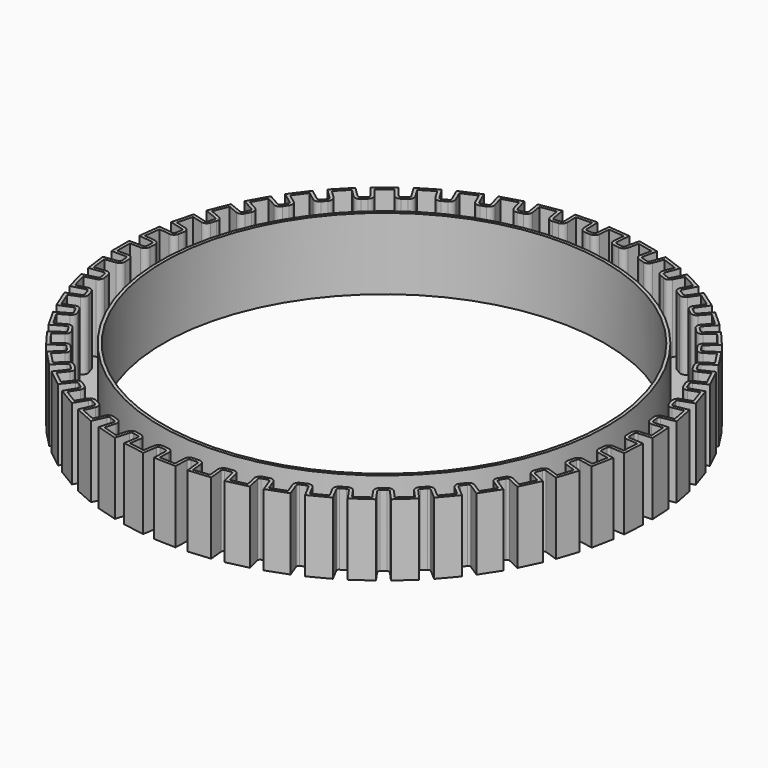
from build123d import *

# Parameters (mm, degrees)
F0_R     = 42.5
F1_DEPTH = 13
F2_T     = 0.6


with BuildPart() as f1:
    # F0 (on Top) → F1 (new body)
    with BuildSketch(Plane.XY):
        with BuildLine():
            Line((-47.4341649025, 1.5), (-49.5, 1.5))
            Line((-49.5, 1.5), (-49.5, -1.5))
            Line((-49.5, -1.5), (-47.4341649025, -1.5))
            ThreePointArc((-47.4341649025, -1.5), (-46.7459177009, -1.7745237499), (-46.4355509046, -2.4473684211))
            ThreePointArc((-46.4355509046, -2.4473684211), (-46.4044607629, -2.9792652291), (-46.3672782008, -3.5107708908))
            ThreePointArc((-46.3672782008, -3.5107708908), (-46.1182356428, -5.9462880183), (-45.7413531463, -8.3653220111))
            ThreePointArc((-45.7413531463, -8.3653220111), (-45.6425008001, -8.8888762346), (-45.5376560709, -9.4112634417))
            ThreePointArc((-45.5376560709, -9.4112634417), (-44.9792111313, -11.7949381518), (-44.2960836339, -14.145917245))
            ThreePointArc((-44.2960836339, -14.145917245), (-44.131092236, -14.6525321381), (-43.9603068873, -15.157223307))
            ThreePointArc((-43.9603068873, -15.157223307), (-43.1016292166, -17.4499157269), (-42.1234736528, -19.6942369088))
            ThreePointArc((-42.1234736528, -19.6942369088), (-41.8950523575, -20.175593869), (-41.6611306799, -20.6543019847))
            ThreePointArc((-41.6611306799, -20.6543019847), (-40.5163197417, -22.8183661682), (-39.259197399, -24.919177747))
            ThreePointArc((-39.259197399, -24.919177747), (-38.9710968775, -25.3673729063), (-38.6778798585, -25.8122375948))
            ThreePointArc((-38.6778798585, -25.8122375948), (-37.2657334169, -27.8121396678), (-35.7502862092, -29.7349463755))
            ThreePointArc((-35.7502862092, -29.7349463755), (-35.4072370642, -30.1426203818), (-35.0595393192, -30.5463369773))
            ThreePointArc((-35.0595393192, -30.5463369773), (-33.4032447795, -32.3492386031), (-31.6543563083, -34.0624680067))
            ThreePointArc((-31.6543563083, -34.0624680067), (-31.2619913972, -34.422926864), (-30.8655221135, -34.778866351))
            ThreePointArc((-30.8655221135, -34.778866351), (-28.9922757864, -36.3551639348), (-27.0386627519, -37.8306848549))
            ThreePointArc((-27.0386627519, -37.8306848549), (-26.6034246957, -38.1380098388), (-26.164693888, -38.4403277008))
            ThreePointArc((-26.164693888, -38.4403277008), (-24.1052544264, -39.7641384797), (-21.9789951007, -40.9777229036))
            ThreePointArc((-21.9789951007, -40.9777229036), (-21.5080304962, -41.2268677463), (-21.0342421123, -41.4705999325))
            ThreePointArc((-21.0342421123, -41.4705999325), (-18.8224254552, -42.5201869702), (-16.5584329575, -43.4519078752))
            ThreePointArc((-16.5584329575, -43.4519078752), (-16.0594750306, -43.6387816253), (-15.5584086626, -43.8199260598))
            ThreePointArc((-15.5584086626, -43.8199260598), (-13.2305327783, -44.5780551662), (-10.865981803, -45.2126137207))
            ThreePointArc((-10.865981803, -45.2126137207), (-10.347223429, -45.3341479165), (-9.8271065728, -45.4497302127))
            ThreePointArc((-9.8271065728, -45.4497302127), (-7.4213951191, -45.9039529288), (-4.9951115276, -46.2309296989))
            ThreePointArc((-4.9951115276, -46.2309296989), (-4.4650707047, -46.2851287521), (-3.9344436647, -46.333251052))
            ThreePointArc((-3.9344436647, -46.333251052), (-1.4903983571, -46.4761090533), (0.9577783409, -46.4901350896))
            ThreePointArc((0.9577783409, -46.4901350896), (1.4903983571, -46.4761090533), (2.0228226995, -46.45598119))
            ThreePointArc((2.0228226995, -46.45598119), (4.4650707047, -46.2851287521), (6.8949415156, -45.9859737474))
            ThreePointArc((6.8949415156, -45.9859737474), (7.4213951191, -45.9039529288), (7.946874371, -45.8159054012))
            ThreePointArc((7.946874371, -45.8159054012), (10.347223429, -45.3341479165), (12.7188899411, -44.7267239876))
            ThreePointArc((12.7188899411, -44.7267239876), (13.2305327783, -44.5780551662), (13.740438585, -44.4235337124))
            ThreePointArc((13.740438585, -44.4235337124), (16.0594750306, -43.6387816253), (18.3339945455, -42.7330626565))
            ThreePointArc((18.3339945455, -42.7330626565), (18.8224254552, -42.5201869702), (19.3083851773, -42.3017288281))
            ThreePointArc((19.3083851773, -42.3017288281), (21.5080304962, -41.2268677463), (23.6480554663, -40.037725618))
            ThreePointArc((23.6480554663, -40.037725618), (24.1052544264, -39.7641384797), (24.5592886187, -39.485330726))
            ThreePointArc((24.5592886187, -39.485330726), (26.6034246957, -38.1380098388), (28.5738159702, -36.6849702317))
            ThreePointArc((28.5738159702, -36.6849702317), (28.9922757864, -36.3551639348), (29.4069292201, -36.020584585))
            ThreePointArc((29.4069292201, -36.020584585), (31.2619913972, -34.422926864), (33.0303952058, -32.7298486485))
            ThreePointArc((33.0303952058, -32.7298486485), (33.4032447795, -32.3492386031), (33.7717088566, -31.964381441))
            ThreePointArc((33.7717088566, -31.964381441), (35.4072370642, -30.1426203818), (36.9446162652, -28.2373038553))
            ThreePointArc((36.9446162652, -28.2373038553), (37.2657334169, -27.8121396678), (37.5819579674, -27.3833240374))
            ThreePointArc((37.5819579674, -27.3833240374), (38.9710968775, -25.3673729063), (40.252207747, -23.2811033134))
            ThreePointArc((40.252207747, -23.2811033134), (40.5163197417, -22.8183661682), (40.7751123674, -22.3526332101))
            ThreePointArc((40.7751123674, -22.3526332101), (41.8950523575, -20.175593869), (42.8988590904, -17.9426276988))
            ThreePointArc((42.8988590904, -17.9426276988), (43.1016292166, -17.4499157269), (43.2987405496, -16.9549127635))
            ThreePointArc((43.2987405496, -16.9549127635), (44.131092236, -14.6525321381), (44.8411123536, -12.3095346334))
            ThreePointArc((44.8411123536, -12.3095346334), (44.9792111313, -11.7949381518), (45.111404609, -11.2787931181))
            ThreePointArc((45.111404609, -11.2787931181), (45.6425008001, -8.8888762346), (46.0470757916, -6.4743193497))
            ThreePointArc((46.0470757916, -6.4743193497), (46.1182356428, -5.9462880183), (46.1833406519, -5.4174760015))
            ThreePointArc((46.1833406519, -5.4174760015), (46.4044607629, -2.9792652291), (46.4969475182, -0.5327959212))
            ThreePointArc((46.4969475182, -0.5327959212), (46.5, 0), (46.4969475182, 0.5327959212))
            ThreePointArc((46.4969475182, 0.5327959212), (46.4044607629, 2.9792652291), (46.1833406519, 5.4174760015))
            ThreePointArc((46.1833406519, 5.4174760015), (46.1182356428, 5.9462880183), (46.0470757916, 6.4743193497))
            ThreePointArc((46.0470757916, 6.4743193497), (45.6425008001, 8.8888762346), (45.111404609, 11.2787931181))
            ThreePointArc((45.111404609, 11.2787931181), (44.9792111313, 11.7949381518), (44.8411123536, 12.3095346334))
            ThreePointArc((44.8411123536, 12.3095346334), (44.131092236, 14.6525321381), (43.2987405496, 16.9549127635))
            ThreePointArc((43.2987405496, 16.9549127635), (43.1016292166, 17.4499157269), (42.8988590904, 17.9426276988))
            ThreePointArc((42.8988590904, 17.9426276988), (41.8950523575, 20.175593869), (40.7751123674, 22.3526332101))
            ThreePointArc((40.7751123674, 22.3526332101), (40.5163197417, 22.8183661682), (40.252207747, 23.2811033134))
            ThreePointArc((40.252207747, 23.2811033134), (38.9710968775, 25.3673729063), (37.5819579674, 27.3833240374))
            ThreePointArc((37.5819579674, 27.3833240374), (37.2657334169, 27.8121396678), (36.9446162652, 28.2373038553))
            ThreePointArc((36.9446162652, 28.2373038553), (35.4072370642, 30.1426203818), (33.7717088566, 31.964381441))
            ThreePointArc((33.7717088566, 31.964381441), (33.4032447795, 32.3492386031), (33.0303952058, 32.7298486485))
            ThreePointArc((33.0303952058, 32.7298486485), (31.2619913972, 34.422926864), (29.4069292201, 36.020584585))
            ThreePointArc((29.4069292201, 36.020584585), (28.9922757864, 36.3551639348), (28.5738159702, 36.6849702317))
            ThreePointArc((28.5738159702, 36.6849702317), (26.6034246957, 38.1380098388), (24.5592886187, 39.485330726))
            ThreePointArc((24.5592886187, 39.485330726), (24.1052544264, 39.7641384797), (23.6480554663, 40.037725618))
            ThreePointArc((23.6480554663, 40.037725618), (21.5080304962, 41.2268677463), (19.3083851773, 42.3017288281))
            ThreePointArc((19.3083851773, 42.3017288281), (18.8224254552, 42.5201869702), (18.3339945455, 42.7330626565))
            ThreePointArc((18.3339945455, 42.7330626565), (16.0594750306, 43.6387816253), (13.740438585, 44.4235337124))
            ThreePointArc((13.740438585, 44.4235337124), (13.2305327783, 44.5780551662), (12.7188899411, 44.7267239876))
            ThreePointArc((12.7188899411, 44.7267239876), (10.347223429, 45.3341479165), (7.946874371, 45.8159054012))
            ThreePointArc((7.946874371, 45.8159054012), (7.4213951191, 45.9039529288), (6.8949415156, 45.9859737474))
            ThreePointArc((6.8949415156, 45.9859737474), (4.4650707047, 46.2851287521), (2.0228226995, 46.45598119))
            ThreePointArc((2.0228226995, 46.45598119), (1.4903983571, 46.4761090533), (0.9577783409, 46.4901350896))
            ThreePointArc((0.9577783409, 46.4901350896), (-1.4903983571, 46.4761090533), (-3.9344436647, 46.333251052))
            ThreePointArc((-3.9344436647, 46.333251052), (-4.4650707047, 46.2851287521), (-4.9951115276, 46.2309296989))
            ThreePointArc((-4.9951115276, 46.2309296989), (-7.4213951191, 45.9039529288), (-9.8271065728, 45.4497302127))
            ThreePointArc((-9.8271065728, 45.4497302127), (-10.347223429, 45.3341479165), (-10.865981803, 45.2126137207))
            ThreePointArc((-10.865981803, 45.2126137207), (-13.2305327783, 44.5780551662), (-15.5584086626, 43.8199260598))
            ThreePointArc((-15.5584086626, 43.8199260598), (-16.0594750306, 43.6387816253), (-16.5584329575, 43.4519078752))
            ThreePointArc((-16.5584329575, 43.4519078752), (-18.8224254552, 42.5201869702), (-21.0342421123, 41.4705999325))
            ThreePointArc((-21.0342421123, 41.4705999325), (-21.5080304962, 41.2268677463), (-21.9789951007, 40.9777229036))
            ThreePointArc((-21.9789951007, 40.9777229036), (-24.1052544264, 39.7641384797), (-26.164693888, 38.4403277008))
            ThreePointArc((-26.164693888, 38.4403277008), (-26.6034246957, 38.1380098388), (-27.0386627519, 37.8306848549))
            ThreePointArc((-27.0386627519, 37.8306848549), (-28.9922757864, 36.3551639348), (-30.8655221135, 34.778866351))
            ThreePointArc((-30.8655221135, 34.778866351), (-31.2619913972, 34.422926864), (-31.6543563083, 34.0624680067))
            ThreePointArc((-31.6543563083, 34.0624680067), (-33.4032447795, 32.3492386031), (-35.0595393192, 30.5463369773))
            ThreePointArc((-35.0595393192, 30.5463369773), (-35.4072370642, 30.1426203818), (-35.7502862092, 29.7349463755))
            ThreePointArc((-35.7502862092, 29.7349463755), (-37.2657334169, 27.8121396678), (-38.6778798585, 25.8122375948))
            ThreePointArc((-38.6778798585, 25.8122375948), (-38.9710968775, 25.3673729063), (-39.259197399, 24.919177747))
            ThreePointArc((-39.259197399, 24.919177747), (-40.5163197417, 22.8183661682), (-41.6611306799, 20.6543019847))
            ThreePointArc((-41.6611306799, 20.6543019847), (-41.8950523575, 20.175593869), (-42.1234736528, 19.6942369088))
            ThreePointArc((-42.1234736528, 19.6942369088), (-43.1016292166, 17.4499157269), (-43.9603068873, 15.157223307))
            ThreePointArc((-43.9603068873, 15.157223307), (-44.131092236, 14.6525321381), (-44.2960836339, 14.145917245))
            ThreePointArc((-44.2960836339, 14.145917245), (-44.9792111313, 11.7949381518), (-45.5376560709, 9.4112634417))
            ThreePointArc((-45.5376560709, 9.4112634417), (-45.6425008001, 8.8888762346), (-45.7413531463, 8.3653220111))
            ThreePointArc((-45.7413531463, 8.3653220111), (-46.1182356428, 5.9462880183), (-46.3672782008, 3.5107708908))
            ThreePointArc((-46.3672782008, 3.5107708908), (-46.4044607629, 2.9792652291), (-46.4355509046, 2.4473684211))
            ThreePointArc((-46.4355509046, 2.4473684211), (-46.7459177009, 1.7745237499), (-47.4341649025, 1.5))
        make_face()
        Circle(F0_R, mode=Mode.SUBTRACT)
        with BuildLine():
            ThreePointArc((-47.2365468069, 4.5780613539), (-46.5890554232, 4.2177803415), (-46.3672782008, 3.5107708908))
            ThreePointArc((-46.3672782008, 3.5107708908), (-46.1182356428, 5.9462880183), (-45.7413531463, 8.3653220111))
            ThreePointArc((-45.7413531463, 8.3653220111), (-46.1352133023, 7.7376902104), (-46.8529153218, 7.5534313953))
            Line((-46.8529153218, 7.5534313953), (-48.9017899417, 7.8176045241))
            Line((-48.9017899417, 7.8176045241), (-49.2854214268, 4.8422344826))
            Line((-49.2854214268, 4.8422344826), (-47.2365468069, 4.5780613539))
        make_face()
        with BuildLine():
            ThreePointArc((-45.7413531463, -8.3653220111), (-46.1182356428, -5.9462880183), (-46.3672782008, -3.5107708908))
            ThreePointArc((-46.3672782008, -3.5107708908), (-46.5890554232, -4.2177803415), (-47.2365468069, -4.5780613539))
            Line((-47.2365468069, -4.5780613539), (-49.2854214268, -4.8422344826))
            Line((-49.2854214268, -4.8422344826), (-48.9017899417, -7.8176045241))
            Line((-48.9017899417, -7.8176045241), (-46.8529153218, -7.5534313953))
            ThreePointArc((-46.8529153218, -7.5534313953), (-46.1352133023, -7.7376902104), (-45.7413531463, -8.3653220111))
        make_face()
        with BuildLine():
            ThreePointArc((-46.2633059186, 10.5809510669), (-45.6672021436, 10.1408285963), (-45.5376560709, 9.4112634417))
            ThreePointArc((-45.5376560709, 9.4112634417), (-44.9792111313, 11.7949381518), (-44.2960836339, 14.145917245))
            ThreePointArc((-44.2960836339, 14.145917245), (-44.7669699767, 13.5738040115), (-45.5023421669, 13.482835656))
            Line((-45.5023421669, 13.482835656), (-47.5006138446, 14.0068441981))
            Line((-47.5006138446, 14.0068441981), (-48.2615775963, 11.104959609))
            Line((-48.2615775963, 11.104959609), (-46.2633059186, 10.5809510669))
        make_face()
        with BuildLine():
            ThreePointArc((-44.2960836339, -14.145917245), (-44.9792111313, -11.7949381518), (-45.5376560709, -9.4112634417))
            ThreePointArc((-45.5376560709, -9.4112634417), (-45.6672021436, -10.1408285963), (-46.2633059186, -10.5809510669))
            Line((-46.2633059186, -10.5809510669), (-48.2615775963, -11.104959609))
            Line((-48.2615775963, -11.104959609), (-47.5006138446, -14.0068441981))
            Line((-47.5006138446, -14.0068441981), (-45.5023421669, -13.482835656))
            ThreePointArc((-45.5023421669, -13.482835656), (-44.7669699767, -13.5738040115), (-44.2960836339, -14.145917245))
        make_face()
        with BuildLine():
            ThreePointArc((-44.5304228262, 16.4101018559), (-43.9954946672, 15.8973647259), (-43.9603068873, 15.157223307))
            ThreePointArc((-43.9603068873, 15.157223307), (-43.1016292166, 17.4499157269), (-42.1234736528, 19.6942369088))
            ThreePointArc((-42.1234736528, 19.6942369088), (-42.6636542418, 19.187036326), (-43.4046218115, 19.1908521279))
            Line((-43.4046218115, 19.1908521279), (-45.3194789813, 19.9660918775))
            Line((-45.3194789813, 19.9660918775), (-46.4452799959, 17.1853416055))
            Line((-46.4452799959, 17.1853416055), (-44.5304228262, 16.4101018559))
        make_face()
        with BuildLine():
            ThreePointArc((-42.1234736528, -19.6942369088), (-43.1016292166, -17.4499157269), (-43.9603068873, -15.157223307))
            ThreePointArc((-43.9603068873, -15.157223307), (-43.9954946672, -15.8973647259), (-44.5304228262, -16.4101018559))
            Line((-44.5304228262, -16.4101018559), (-46.4452799959, -17.1853416055))
            Line((-46.4452799959, -17.1853416055), (-45.3194789813, -19.9660918775))
            Line((-45.3194789813, -19.9660918775), (-43.4046218115, -19.1908521279))
            ThreePointArc((-43.4046218115, -19.1908521279), (-42.6636542418, -19.187036326), (-42.1234736528, -19.6942369088))
        make_face()
        with BuildLine():
            ThreePointArc((-42.066351422, 21.9697992261), (-41.6013823847, 21.3928665662), (-41.6611306799, 20.6543019847))
            ThreePointArc((-41.6611306799, 20.6543019847), (-40.5163197417, 22.8183661682), (-39.259197399, 24.919177747))
            ThreePointArc((-39.259197399, 24.919177747), (-39.8598024837, 24.4852180346), (-40.594198766, 24.5837553385))
            Line((-40.594198766, 24.5837553385), (-42.3941995261, 25.5974968804))
            Line((-42.3941995261, 25.5974968804), (-43.8663521821, 22.983540768))
            Line((-43.8663521821, 22.983540768), (-42.066351422, 21.9697992261))
        make_face()
        with BuildLine():
            ThreePointArc((-39.259197399, -24.919177747), (-40.5163197417, -22.8183661682), (-41.6611306799, -20.6543019847))
            ThreePointArc((-41.6611306799, -20.6543019847), (-41.6013823847, -21.3928665662), (-42.066351422, -21.9697992261))
            Line((-42.066351422, -21.9697992261), (-43.8663521821, -22.983540768))
            Line((-43.8663521821, -22.983540768), (-42.3941995261, -25.5974968804))
            Line((-42.3941995261, -25.5974968804), (-40.594198766, -24.5837553385))
            ThreePointArc((-40.594198766, -24.5837553385), (-39.8598024837, -24.4852180346), (-39.259197399, -24.919177747))
        make_face()
        with BuildLine():
            ThreePointArc((-38.9115516906, 27.1687531005), (-38.5241765536, 26.5370981289), (-38.6778798585, 25.8122375948))
            ThreePointArc((-38.6778798585, 25.8122375948), (-37.2657334169, 27.8121396678), (-35.7502862092, 29.7349463755))
            ThreePointArc((-35.7502862092, 29.7349463755), (-36.4014538708, 29.3813531399), (-37.1172200991, 29.5729939661))
            Line((-37.1172200991, 29.5729939661), (-38.7728084867, 30.8085916921))
            Line((-38.7728084867, 30.8085916921), (-40.5671400782, 28.4043508265))
            Line((-40.5671400782, 28.4043508265), (-38.9115516906, 27.1687531005))
        make_face()
        with BuildLine():
            ThreePointArc((-35.7502862092, -29.7349463755), (-37.2657334169, -27.8121396678), (-38.6778798585, -25.8122375948))
            ThreePointArc((-38.6778798585, -25.8122375948), (-38.5241765536, -26.5370981289), (-38.9115516906, -27.1687531005))
            Line((-38.9115516906, -27.1687531005), (-40.5671400782, -28.4043508265))
            Line((-40.5671400782, -28.4043508265), (-38.7728084867, -30.8085916921))
            Line((-38.7728084867, -30.8085916921), (-37.1172200991, -29.5729939661))
            ThreePointArc((-37.1172200991, -29.5729939661), (-36.4014538708, -29.3813531399), (-35.7502862092, -29.7349463755))
        make_face()
        with BuildLine():
            ThreePointArc((-35.1178253561, 31.9215968), (-34.8144048086, 31.245591274), (-35.0595393192, 30.5463369773))
            ThreePointArc((-35.0595393192, 30.5463369773), (-33.4032447795, 32.3492386031), (-31.6543563083, 34.0624680067))
            ThreePointArc((-31.6543563083, 34.0624680067), (-32.3453943917, 33.7950472389), (-33.0307777043, 34.0766448503))
            Line((-33.0307777043, 34.0766448503), (-34.5147690039, 35.51381028))
            Line((-34.5147690039, 35.51381028), (-36.6018166557, 33.3587622297))
            Line((-36.6018166557, 33.3587622297), (-35.1178253561, 31.9215968))
        make_face()
        with BuildLine():
            ThreePointArc((-31.6543563083, -34.0624680067), (-33.4032447795, -32.3492386031), (-35.0595393192, -30.5463369773))
            ThreePointArc((-35.0595393192, -30.5463369773), (-34.8144048086, -31.245591274), (-35.1178253561, -31.9215968))
            Line((-35.1178253561, -31.9215968), (-36.6018166557, -33.3587622297))
            Line((-36.6018166557, -33.3587622297), (-34.5147690039, -35.51381028))
            Line((-34.5147690039, -35.51381028), (-33.0307777043, -34.0766448503))
            ThreePointArc((-33.0307777043, -34.0766448503), (-32.3453943917, -33.7950472389), (-31.6543563083, -34.0624680067))
        make_face()
        with BuildLine():
            ThreePointArc((-30.7474653001, 36.1502887626), (-30.5329814991, 35.4410326742), (-30.8655221135, 34.778866351))
            ThreePointArc((-30.8655221135, 34.778866351), (-28.9922757864, 36.3551639348), (-27.0386627519, 37.8306848549))
            ThreePointArc((-27.0386627519, 37.8306848549), (-27.758224431, 37.6538275966), (-28.4019708527, 38.0207581682))
            Line((-28.4019708527, 38.0207581682), (-29.6899979683, 39.635893085))
            Line((-29.6899979683, 39.635893085), (-32.0354924157, 37.7654236794))
            Line((-32.0354924157, 37.7654236794), (-30.7474653001, 36.1502887626))
        make_face()
        with BuildLine():
            ThreePointArc((-27.0386627519, -37.8306848549), (-28.9922757864, -36.3551639348), (-30.8655221135, -34.778866351))
            ThreePointArc((-30.8655221135, -34.778866351), (-30.5329814991, -35.4410326742), (-30.7474653001, -36.1502887626))
            Line((-30.7474653001, -36.1502887626), (-32.0354924157, -37.7654236794))
            Line((-32.0354924157, -37.7654236794), (-29.6899979683, -39.635893085))
            Line((-29.6899979683, -39.635893085), (-28.4019708527, -38.0207581682))
            ThreePointArc((-28.4019708527, -38.0207581682), (-27.758224431, -37.6538275966), (-27.0386627519, -37.8306848549))
        make_face()
        with BuildLine():
            ThreePointArc((-25.872232714, 39.7853939831), (-25.7502074775, 39.0545332977), (-26.164693888, 38.4403277008))
            ThreePointArc((-26.164693888, 38.4403277008), (-24.1052544264, 39.7641384797), (-21.9789951007, 40.9777229036))
            ThreePointArc((-21.9789951007, 40.9777229036), (-22.7152651925, 40.8943331462), (-23.306804425, 41.3405716881))
            Line((-23.306804425, 41.3405716881), (-24.3777179869, 43.1071556212))
            Line((-24.3777179869, 43.1071556212), (-26.9431462759, 41.5519779163))
            Line((-26.9431462759, 41.5519779163), (-25.872232714, 39.7853939831))
        make_face()
        with BuildLine():
            ThreePointArc((-21.9789951007, -40.9777229036), (-24.1052544264, -39.7641384797), (-26.164693888, -38.4403277008))
            ThreePointArc((-26.164693888, -38.4403277008), (-25.7502074775, -39.0545332977), (-25.872232714, -39.7853939831))
            Line((-25.872232714, -39.7853939831), (-26.9431462759, -41.5519779163))
            Line((-26.9431462759, -41.5519779163), (-24.3777179869, -43.1071556212))
            Line((-24.3777179869, -43.1071556212), (-23.306804425, -41.3405716881))
            ThreePointArc((-23.306804425, -41.3405716881), (-22.7152651925, -40.8943331462), (-21.9789951007, -40.9777229036))
        make_face()
        with BuildLine():
            ThreePointArc((-20.572178782, 42.7672241344), (-20.544615761, 42.0267595642), (-21.0342421123, 41.4705999325))
            ThreePointArc((-21.0342421123, 41.4705999325), (-18.8224254552, 42.5201869702), (-16.5584329575, 43.4519078752))
            ThreePointArc((-16.5584329575, 43.4519078752), (-17.2993219276, 43.4633548761), (-17.8289409129, 43.9815741638))
            Line((-17.8289409129, 43.9815741638), (-18.66515655, 45.870599854))
            Line((-18.66515655, 45.870599854), (-21.4083944191, 44.6562498246))
            Line((-21.4083944191, 44.6562498246), (-20.572178782, 42.7672241344))
        make_face()
        with BuildLine():
            ThreePointArc((-16.5584329575, -43.4519078752), (-18.8224254552, -42.5201869702), (-21.0342421123, -41.4705999325))
            ThreePointArc((-21.0342421123, -41.4705999325), (-20.544615761, -42.0267595642), (-20.572178782, -42.7672241344))
            Line((-20.572178782, -42.7672241344), (-21.4083944191, -44.6562498246))
            Line((-21.4083944191, -44.6562498246), (-18.66515655, -45.870599854))
            Line((-18.66515655, -45.870599854), (-17.8289409129, -43.9815741638))
            ThreePointArc((-17.8289409129, -43.9815741638), (-17.2993219276, -43.4633548761), (-16.5584329575, -43.4519078752))
        make_face()
        with BuildLine():
            ThreePointArc((-14.9343302431, 45.0468176477), (-15.0016820218, 44.3089076006), (-15.5584086626, 43.8199260598))
            ThreePointArc((-15.5584086626, 43.8199260598), (-13.2305327783, 44.5780551662), (-10.865981803, 45.2126137207))
            ThreePointArc((-10.865981803, 45.2126137207), (-11.5993242748, 45.3187095205), (-12.058326684, 45.9004004076))
            Line((-12.058326684, 45.9004004076), (-12.6461137587, 47.8808501053))
            Line((-12.6461137587, 47.8808501053), (-15.5221173178, 47.0272673454))
            Line((-15.5221173178, 47.0272673454), (-14.9343302431, 45.0468176477))
        make_face()
        with BuildLine():
            ThreePointArc((-10.865981803, -45.2126137207), (-13.2305327783, -44.5780551662), (-15.5584086626, -43.8199260598))
            ThreePointArc((-15.5584086626, -43.8199260598), (-15.0016820218, -44.3089076006), (-14.9343302431, -45.0468176477))
            Line((-14.9343302431, -45.0468176477), (-15.5221173178, -47.0272673454))
            Line((-15.5221173178, -47.0272673454), (-12.6461137587, -47.8808501053))
            Line((-12.6461137587, -47.8808501053), (-12.058326684, -45.9004004076))
            ThreePointArc((-12.058326684, -45.9004004076), (-11.5993242748, -45.3187095205), (-10.865981803, -45.2126137207))
        make_face()
        with BuildLine():
            ThreePointArc((-9.0512604146, 46.5867436607), (-9.2124210784, 45.8635045991), (-9.8271065728, 45.4497302127))
            ThreePointArc((-9.8271065728, 45.4497302127), (-7.4213951191, 45.9039529288), (-4.9951115276, 46.2309296989))
            ThreePointArc((-4.9951115276, 46.2309296989), (-5.7088660382, 46.4299322076), (-6.0897150643, 47.0655433458))
            Line((-6.0897150643, 47.0655433458), (-6.419422129, 49.1048981216))
            Line((-6.419422129, 49.1048981216), (-9.3809674793, 48.6260984365))
            Line((-9.3809674793, 48.6260984365), (-9.0512604146, 46.5867436607))
        make_face()
        with BuildLine():
            ThreePointArc((-4.9951115276, -46.2309296989), (-7.4213951191, -45.9039529288), (-9.8271065728, -45.4497302127))
            ThreePointArc((-9.8271065728, -45.4497302127), (-9.2124210784, -45.8635045991), (-9.0512604146, -46.5867436607))
            Line((-9.0512604146, -46.5867436607), (-9.3809674793, -48.6260984365))
            Line((-9.3809674793, -48.6260984365), (-6.419422129, -49.1048981216))
            Line((-6.419422129, -49.1048981216), (-6.0897150643, -47.0655433458))
            ThreePointArc((-6.0897150643, -47.0655433458), (-5.7088660382, -46.4299322076), (-4.9951115276, -46.2309296989))
        make_face()
        with BuildLine():
            ThreePointArc((-3.0195691402, 47.3617166307), (-3.2718924357, 46.6650241201), (-3.9344436647, 46.333251052))
            ThreePointArc((-3.9344436647, 46.333251052), (-1.4903983571, 46.4761090533), (0.9577783409, 46.4901350896))
            ThreePointArc((0.9577783409, 46.4901350896), (0.275331621, 46.7787766913), (-0.0211104916, 47.4578713634))
            Line((-0.0211104916, 47.4578713634), (-0.0873237655, 49.5226450683))
            Line((-0.0873237655, 49.5226450683), (-3.0857824141, 49.4264903356))
            Line((-3.0857824141, 49.4264903356), (-3.0195691402, 47.3617166307))
        make_face()
        with BuildLine():
            ThreePointArc((0.9577783409, -46.4901350896), (-1.4903983571, -46.4761090533), (-3.9344436647, -46.333251052))
            ThreePointArc((-3.9344436647, -46.333251052), (-3.2718924357, -46.6650241201), (-3.0195691402, -47.3617166307))
            Line((-3.0195691402, -47.3617166307), (-3.0857824141, -49.4264903356))
            Line((-3.0857824141, -49.4264903356), (-0.0873237655, -49.5226450683))
            Line((-0.0873237655, -49.5226450683), (-0.0211104916, -47.4578713634))
            ThreePointArc((-0.0211104916, -47.4578713634), (0.275331621, -46.7787766913), (0.9577783409, -46.4901350896))
        make_face()
        with BuildLine():
            ThreePointArc((3.0617033759, 47.359011523), (2.7223605904, 46.7003052351), (2.0228226995, 46.45598119))
            ThreePointArc((2.0228226995, 46.45598119), (4.4650707047, 46.2851287521), (6.8949415156, 45.9859737474))
            ThreePointArc((6.8949415156, 45.9859737474), (6.2550083425, 46.3595149551), (6.0478407148, 47.0709424453))
            Line((6.0478407148, 47.0709424453), (6.2462084519, 49.1272315521))
            Line((6.2462084519, 49.1272315521), (3.260071113, 49.4153006298))
            Line((3.260071113, 49.4153006298), (3.0617033759, 47.359011523))
        make_face()
        with BuildLine():
            ThreePointArc((6.8949415156, -45.9859737474), (4.4650707047, -46.2851287521), (2.0228226995, -46.45598119))
            ThreePointArc((2.0228226995, -46.45598119), (2.7223605904, -46.7003052351), (3.0617033759, -47.359011523))
            Line((3.0617033759, -47.359011523), (3.260071113, -49.4153006298))
            Line((3.260071113, -49.4153006298), (6.2462084519, -49.1272315521))
            Line((6.2462084519, -49.1272315521), (6.0478407148, -47.0709424453))
            ThreePointArc((6.0478407148, -47.0709424453), (6.2550083425, -46.3595149551), (6.8949415156, -45.9859737474))
        make_face()
        with BuildLine():
            ThreePointArc((9.0927028073, 46.5786727554), (8.6719125309, 45.9687686293), (7.946874371, 45.8159054012))
            ThreePointArc((7.946874371, 45.8159054012), (10.347223429, 45.3341479165), (12.7188899411, 44.7267239876))
            ThreePointArc((12.7188899411, 44.7267239876), (12.131978, 45.179031265), (12.0174865438, 45.9111099536))
            Line((12.0174865438, 45.9111099536), (12.4771780991, 47.9251502521))
            Line((12.4771780991, 47.9251502521), (9.5523943626, 48.5927130539))
            Line((9.5523943626, 48.5927130539), (9.0927028073, 46.5786727554))
        make_face()
        with BuildLine():
            ThreePointArc((12.7188899411, -44.7267239876), (10.347223429, -45.3341479165), (7.946874371, -45.8159054012))
            ThreePointArc((7.946874371, -45.8159054012), (8.6719125309, -45.9687686293), (9.0927028073, -46.5786727554))
            Line((9.0927028073, -46.5786727554), (9.5523943626, -48.5927130539))
            Line((9.5523943626, -48.5927130539), (12.4771780991, -47.9251502521))
            Line((12.4771780991, -47.9251502521), (12.0174865438, -45.9111099536))
            ThreePointArc((12.0174865438, -45.9111099536), (12.131978, -45.179031265), (12.7188899411, -44.7267239876))
        make_face()
        with BuildLine():
            ThreePointArc((14.9744003099, 45.033513469), (14.4790719073, 44.4824261135), (13.740438585, 44.4235337124))
            ThreePointArc((13.740438585, 44.4235337124), (16.0594750306, 43.6387816253), (18.3339945455, 42.7330626565))
            ThreePointArc((18.3339945455, 42.7330626565), (17.8097409142, 43.2567091306), (17.7898055761, 43.9974183057))
            Line((17.7898055761, 43.9974183057), (18.5032728269, 45.9361393098))
            Line((18.5032728269, 45.9361393098), (15.6878675608, 46.9722344731))
            Line((15.6878675608, 46.9722344731), (14.9744003099, 45.033513469))
        make_face()
        with BuildLine():
            ThreePointArc((18.3339945455, -42.7330626565), (16.0594750306, -43.6387816253), (13.740438585, -44.4235337124))
            ThreePointArc((13.740438585, -44.4235337124), (14.4790719073, -44.4824261135), (14.9744003099, -45.033513469))
            Line((14.9744003099, -45.033513469), (15.6878675608, -46.9722344731))
            Line((15.6878675608, -46.9722344731), (18.5032728269, -45.9361393098))
            Line((18.5032728269, -45.9361393098), (17.7898055761, -43.9974183057))
            ThreePointArc((17.7898055761, -43.9974183057), (17.8097409142, -43.2567091306), (18.3339945455, -42.7330626565))
        make_face()
        with BuildLine():
            ThreePointArc((20.6102185735, 42.7489051363), (20.0484853233, 42.2656833907), (19.3083851773, 42.3017288281))
            ThreePointArc((19.3083851773, 42.3017288281), (21.5080304962, 41.2268677463), (23.6480554663, 40.037725618))
            ThreePointArc((23.6480554663, 40.037725618), (23.1950683749, 40.6241130281), (23.2700164926, 41.3612902656))
            Line((23.2700164926, 41.3612902656), (24.2255443265, 43.1928582301))
            Line((24.2255443265, 43.1928582301), (21.5657464074, 44.5804731008))
            Line((21.5657464074, 44.5804731008), (20.6102185735, 42.7489051363))
        make_face()
        with BuildLine():
            ThreePointArc((23.6480554663, -40.037725618), (21.5080304962, -41.2268677463), (19.3083851773, -42.3017288281))
            ThreePointArc((19.3083851773, -42.3017288281), (20.0484853233, -42.2656833907), (20.6102185735, -42.7489051363))
            Line((20.6102185735, -42.7489051363), (21.5657464074, -44.5804731008))
            Line((21.5657464074, -44.5804731008), (24.2255443265, -43.1928582301))
            Line((24.2255443265, -43.1928582301), (23.2700164926, -41.3612902656))
            ThreePointArc((23.2700164926, -41.3612902656), (23.1950683749, -40.6241130281), (23.6480554663, -40.037725618))
        make_face()
        with BuildLine():
            ThreePointArc((25.9076176178, 39.7623609632), (25.2887031646, 39.3549393151), (24.5592886187, 39.485330726))
            ThreePointArc((24.5592886187, 39.485330726), (26.6034246957, 38.1380098388), (28.5738159702, 36.6849702317))
            ThreePointArc((28.5738159702, 36.6849702317), (28.1995334542, 37.3244701129), (28.3681343816, 38.0460109828))
            Line((28.3681343816, 38.0460109828), (29.5500330579, 39.7403516124))
            Line((29.5500330579, 39.7403516124), (27.0895162942, 41.4567015927))
            Line((27.0895162942, 41.4567015927), (25.9076176178, 39.7623609632))
        make_face()
        with BuildLine():
            ThreePointArc((28.5738159702, -36.6849702317), (26.6034246957, -38.1380098388), (24.5592886187, -39.485330726))
            ThreePointArc((24.5592886187, -39.485330726), (25.2887031646, -39.3549393151), (25.9076176178, -39.7623609632))
            Line((25.9076176178, -39.7623609632), (27.0895162942, -41.4567015927))
            Line((27.0895162942, -41.4567015927), (29.5500330579, -39.7403516124))
            Line((29.5500330579, -39.7403516124), (28.3681343816, -38.0460109828))
            ThreePointArc((28.3681343816, -38.0460109828), (28.1995334542, -37.3244701129), (28.5738159702, -36.6849702317))
        make_face()
        with BuildLine():
            ThreePointArc((30.7796142972, 36.1229199224), (30.1136811991, 35.7979882239), (29.4069292201, 36.020584585))
            ThreePointArc((29.4069292201, 36.020584585), (31.2619913972, 34.422926864), (33.0303952058, 32.7298486485))
            ThreePointArc((33.0303952058, 32.7298486485), (32.7409629737, 33.4119604302), (33.0004482884, 34.1060172516))
            Line((33.0004482884, 34.1060172516), (34.3893110635, 35.6353095198))
            Line((34.3893110635, 35.6353095198), (32.1684770723, 37.6522121906))
            Line((32.1684770723, 37.6522121906), (30.7796142972, 36.1229199224))
        make_face()
        with BuildLine():
            ThreePointArc((33.0303952058, -32.7298486485), (31.2619913972, -34.422926864), (29.4069292201, -36.020584585))
            ThreePointArc((29.4069292201, -36.020584585), (30.1136811991, -35.7979882239), (30.7796142972, -36.1229199224))
            Line((30.7796142972, -36.1229199224), (32.1684770723, -37.6522121906))
            Line((32.1684770723, -37.6522121906), (34.3893110635, -35.6353095198))
            Line((34.3893110635, -35.6353095198), (33.0004482884, -34.1060172516))
            ThreePointArc((33.0004482884, -34.1060172516), (32.7409629737, -33.4119604302), (33.0303952058, -32.7298486485))
        make_face()
        with BuildLine():
            ThreePointArc((35.1462105607, 31.8903415351), (34.4441934208, 31.6532351558), (33.7717088566, 31.964381441))
            ThreePointArc((33.7717088566, 31.964381441), (35.4072370642, 30.1426203818), (36.9446162652, 28.2373038553))
            ThreePointArc((36.9446162652, 28.2373038553), (36.7447867864, 28.9508272811), (37.0908957466, 29.60600366))
            Line((37.0908957466, 29.60600366), (38.6639175322, 30.9451366302))
            Line((38.6639175322, 30.9451366302), (36.7192323463, 33.2294745053))
            Line((36.7192323463, 33.2294745053), (35.1462105607, 31.8903415351))
        make_face()
        with BuildLine():
            ThreePointArc((36.9446162652, -28.2373038553), (35.4072370642, -30.1426203818), (33.7717088566, -31.964381441))
            ThreePointArc((33.7717088566, -31.964381441), (34.4441934208, -31.6532351558), (35.1462105607, -31.8903415351))
            Line((35.1462105607, -31.8903415351), (36.7192323463, -33.2294745053))
            Line((36.7192323463, -33.2294745053), (38.6639175322, -30.9451366302))
            Line((38.6639175322, -30.9451366302), (37.0908957466, -29.60600366))
            ThreePointArc((37.0908957466, -29.60600366), (36.7447867864, -28.9508272811), (36.9446162652, -28.2373038553))
        make_face()
        with BuildLine():
            ThreePointArc((38.9357070185, 27.1341246214), (38.2091329388, 26.9887368416), (37.5819579674, 27.3833240374))
            ThreePointArc((37.5819579674, 27.3833240374), (38.9710968775, 25.3673729063), (40.252207747, 23.2811033134))
            ThreePointArc((40.252207747, 23.2811033134), (40.145262216, 24.0143223483), (40.5723117221, 24.6198603068))
            Line((40.5723117221, 24.6198603068), (42.303663544, 25.7468454526))
            Line((42.303663544, 25.7468454526), (40.6670588403, 28.2611097673))
            Line((40.6670588403, 28.2611097673), (38.9357070185, 27.1341246214))
        make_face()
        with BuildLine():
            ThreePointArc((40.252207747, -23.2811033134), (38.9710968775, -25.3673729063), (37.5819579674, -27.3833240374))
            ThreePointArc((37.5819579674, -27.3833240374), (38.2091329388, -26.9887368416), (38.9357070185, -27.1341246214))
            Line((38.9357070185, -27.1341246214), (40.6670588403, -28.2611097673))
            Line((40.6670588403, -28.2611097673), (42.303663544, -25.7468454526))
            Line((42.303663544, -25.7468454526), (40.5723117221, -24.6198603068))
            ThreePointArc((40.5723117221, -24.6198603068), (40.145262216, -24.0143223483), (40.252207747, -23.2811033134))
        make_face()
        with BuildLine():
            ThreePointArc((42.0858802434, 21.9323661317), (41.3466795503, 21.8810842146), (40.7751123674, 22.3526332101))
            ThreePointArc((40.7751123674, 22.3526332101), (41.8950523575, 20.175593869), (42.8988590904, 17.9426276988))
            ThreePointArc((42.8988590904, 17.9426276988), (42.8865535498, 18.6835029065), (43.3875314608, 19.229459528))
            Line((43.3875314608, 19.229459528), (45.2487845698, 20.1257917845))
            Line((45.2487845698, 20.1257917845), (43.9471333525, 22.8286983882))
            Line((43.9471333525, 22.8286983882), (42.0858802434, 21.9323661317))
        make_face()
        with BuildLine():
            ThreePointArc((42.8988590904, -17.9426276988), (41.8950523575, -20.175593869), (40.7751123674, -22.3526332101))
            ThreePointArc((40.7751123674, -22.3526332101), (41.3466795503, -21.8810842146), (42.0858802434, -21.9323661317))
            Line((42.0858802434, -21.9323661317), (43.9471333525, -22.8286983882))
            Line((43.9471333525, -22.8286983882), (45.2487845698, -20.1257917845))
            Line((45.2487845698, -20.1257917845), (43.3875314608, -19.229459528))
            ThreePointArc((43.3875314608, -19.229459528), (42.8865535498, -18.6835029065), (42.8988590904, -17.9426276988))
        make_face()
        with BuildLine():
            ThreePointArc((44.5450044784, 16.3704787964), (43.8053148267, 16.4141447897), (43.2987405496, 16.9549127635))
            ThreePointArc((43.2987405496, 16.9549127635), (44.131092236, 14.6525321381), (44.8411123536, 12.3095346334))
            ThreePointArc((44.8411123536, 12.3095346334), (44.92364886, 13.0459008636), (45.4903291324, 13.5233115554))
            Line((45.4903291324, 13.5233115554), (47.4509218041, 14.1742731717))
            Line((47.4509218041, 14.1742731717), (46.50559715, 17.0214404127))
            Line((46.50559715, 17.0214404127), (44.5450044784, 16.3704787964))
        make_face()
        with BuildLine():
            ThreePointArc((44.8411123536, -12.3095346334), (44.131092236, -14.6525321381), (43.2987405496, -16.9549127635))
            ThreePointArc((43.2987405496, -16.9549127635), (43.8053148267, -16.4141447897), (44.5450044784, -16.3704787964))
            Line((44.5450044784, -16.3704787964), (46.50559715, -17.0214404127))
            Line((46.50559715, -17.0214404127), (47.4509218041, -14.1742731717))
            Line((47.4509218041, -14.1742731717), (45.4903291324, -13.5233115554))
            ThreePointArc((45.4903291324, -13.5233115554), (44.92364886, -13.0459008636), (44.8411123536, -12.3095346334))
        make_face()
        with BuildLine():
            ThreePointArc((46.2727009712, 10.5397886518), (45.5446680447, 10.6776855611), (45.111404609, 11.2787931181))
            ThreePointArc((45.111404609, 11.2787931181), (45.6425008001, 8.8888762346), (46.0470757916, 6.4743193497))
            ThreePointArc((46.0470757916, 6.4743193497), (46.2230990979, 7.1940854891), (46.8461768574, 7.5951111809))
            Line((46.8461768574, 7.5951111809), (48.8739162141, 7.9900133852))
            Line((48.8739162141, 7.9900133852), (48.300440328, 10.9346908562))
            Line((48.300440328, 10.9346908562), (46.2727009712, 10.5397886518))
        make_face()
        with BuildLine():
            ThreePointArc((46.0470757916, -6.4743193497), (45.6425008001, -8.8888762346), (45.111404609, -11.2787931181))
            ThreePointArc((45.111404609, -11.2787931181), (45.5446680447, -10.6776855611), (46.2727009712, -10.5397886518))
            Line((46.2727009712, -10.5397886518), (48.300440328, -10.9346908562))
            Line((48.300440328, -10.9346908562), (48.8739162141, -7.9900133852))
            Line((48.8739162141, -7.9900133852), (46.8461768574, -7.5951111809))
            ThreePointArc((46.8461768574, -7.5951111809), (46.2230990979, -7.1940854891), (46.0470757916, -6.4743193497))
        make_face()
        with BuildLine():
            ThreePointArc((47.2406009935, 4.536035469), (46.5361790725, 4.7658990308), (46.1833406519, 5.4174760015))
            ThreePointArc((46.1833406519, 5.4174760015), (46.4044607629, 2.9792652291), (46.4969475182, 0.5327959212))
            ThreePointArc((46.4969475182, 0.5327959212), (46.7635673265, 1.2241434298), (47.4328116534, 1.5421992908))
            Line((47.4328116534, 1.5421992908), (49.4944022711, 1.6745577999))
            Line((49.4944022711, 1.6745577999), (49.3021916112, 4.6683939782))
            Line((49.3021916112, 4.6683939782), (47.2406009935, 4.536035469))
        make_face()
        with BuildLine():
            ThreePointArc((46.4969475182, -0.5327959212), (46.4044607629, -2.9792652291), (46.1833406519, -5.4174760015))
            ThreePointArc((46.1833406519, -5.4174760015), (46.5361790725, -4.7658990308), (47.2406009935, -4.536035469))
            Line((47.2406009935, -4.536035469), (49.3021916112, -4.6683939782))
            Line((49.3021916112, -4.6683939782), (49.4944022711, -1.6745577999))
            Line((49.4944022711, -1.6745577999), (47.4328116534, -1.5421992908))
            ThreePointArc((47.4328116534, -1.5421992908), (46.7635673265, -1.2241434298), (46.4969475182, -0.5327959212))
        make_face()
    extrude(amount=F1_DEPTH)

    # F2
    f2_openings = [f1.faces().sort_by_distance(p)[0] for p in [
        (-45.309251, 6.606862, 13),
    ]]
    offset(amount=F2_T, openings=f2_openings, kind=Kind.INTERSECTION)


solid = f1.part
